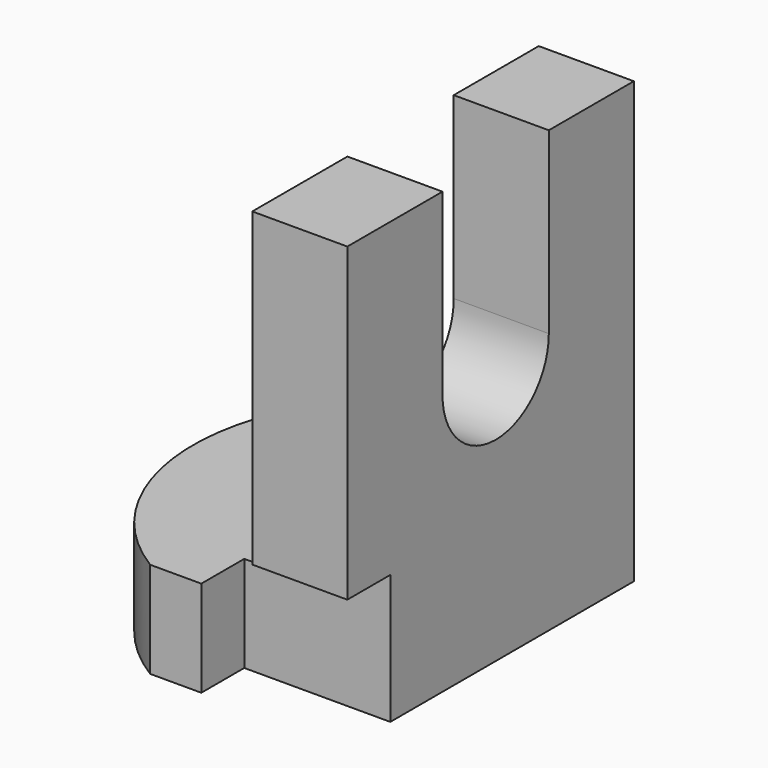
from build123d import *

# Parameters (mm, degrees)
F1_DEPTH = 50.8
F3_DEPTH = 25.4
F4_W     = 26.0413559154
F4_H     = 20.6534923054
F5_DEPTH = 7.62
F7_DEPTH = 25.4
F9_DEPTH = 25.4


with BuildPart() as f1:
    # F0 (on Front) → F1 (new body)
    with BuildSketch(Plane.XZ):
        Polygon((-42.4485914409, 0), (0, 0), (0, 62.4661669135), (-13.4870102629, 62.4661669135), (-13.4870102629, 13.6289829388), (-42.4485914409, 13.6289829388), align=None)
    extrude(amount=-F1_DEPTH)

    # F2 (on face) → F3 (cut)
    with BuildSketch(Plane.XY.offset(13.6289829388)):
        with BuildLine():
            ThreePointArc((-27.9678008519, 0), (-42.2028744607, 25.4), (-27.9678008519, 50.8))
            Line((-27.9678008519, 50.8), (-42.4485914409, 50.8))
            Line((-42.4485914409, 50.8), (-42.4485914409, 0))
            Line((-42.4485914409, 0), (-27.9678008519, 0))
        make_face()
    extrude(amount=-F3_DEPTH, mode=Mode.SUBTRACT)

    # F4 (on face) → F5 (cut)
    with BuildSketch(Plane.XZ):
        with Locations((-7.6980530284, 8.0353214871)):
            Rectangle(F4_W, F4_H)
    extrude(amount=-F5_DEPTH, mode=Mode.SUBTRACT)

    # F6 (on face) → F7 (cut)
    with BuildSketch(Plane.XY.offset(62.4661669135)):
        Polygon((0, 16.8692115694), (0, 25.4), (0, 35.7267484069), (-13.4870102629, 35.7267484069), (-13.4870102629, 16.8692115694), align=None)
    extrude(amount=-F7_DEPTH, mode=Mode.SUBTRACT)

    # F8 (on face) → F9 (cut)
    with BuildSketch(Plane(origin=(-13.4870102629, 0, 0), x_dir=(0, -1, 0), z_dir=(-1, 0, 0))):
        with BuildLine():
            Line((-16.8692115694, 37.0661669135), (-35.7267484069, 37.0661669135))
            ThreePointArc((-35.7267484069, 37.0661669135), (-26.2979799882, 27.6373984948), (-16.8692115694, 37.0661669135))
        make_face()
    extrude(amount=-F9_DEPTH, mode=Mode.SUBTRACT)


solid = f1.part
